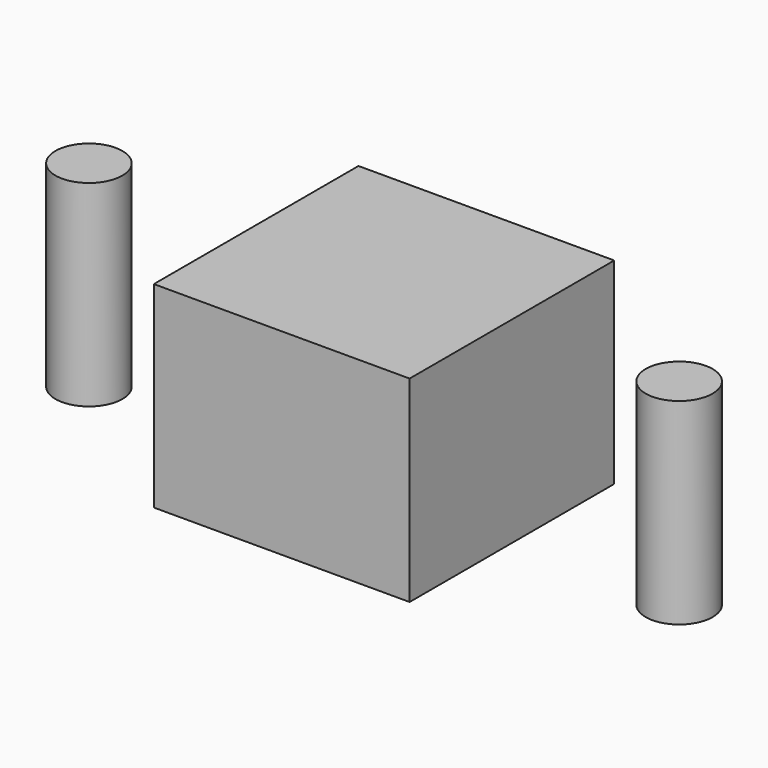
from build123d import *

# Parameters (mm, degrees)
CYLINDER007_R     = 1.7
CYLINDER007_DEPTH = 10
BOX009_W          = 13
BOX009_H          = 13
BOX009_DEPTH      = 10
CYLINDER008_R     = 1.7
CYLINDER008_DEPTH = 10


with BuildPart() as cylinder007:
    # Cylinder007 → Cylinder007 (new body)
    with BuildSketch(Plane.XY):
        Circle(CYLINDER007_R)
    extrude(amount=CYLINDER007_DEPTH)


with BuildPart() as box009:
    # Box009 → Box009 (new body)
    with BuildSketch(Plane(origin=(8.5, -6.5, 0), x_dir=(1, 0, 0), z_dir=(0, 0, 1))):
        with Locations((6.5, 6.5)):
            Rectangle(BOX009_W, BOX009_H)
    extrude(amount=BOX009_DEPTH)


with BuildPart() as usb_type_b:
    # Cylinder008 → Cylinder008 (new body)
    with BuildSketch(Plane(origin=(30, 0, 0), x_dir=(1, 0, 0), z_dir=(0, 0, 1))):
        Circle(CYLINDER008_R)
    extrude(amount=CYLINDER008_DEPTH)

    # Fusion019002003: union Cylinder007, Box009
    add(cylinder007.part)
    add(box009.part)


solid = usb_type_b.part
